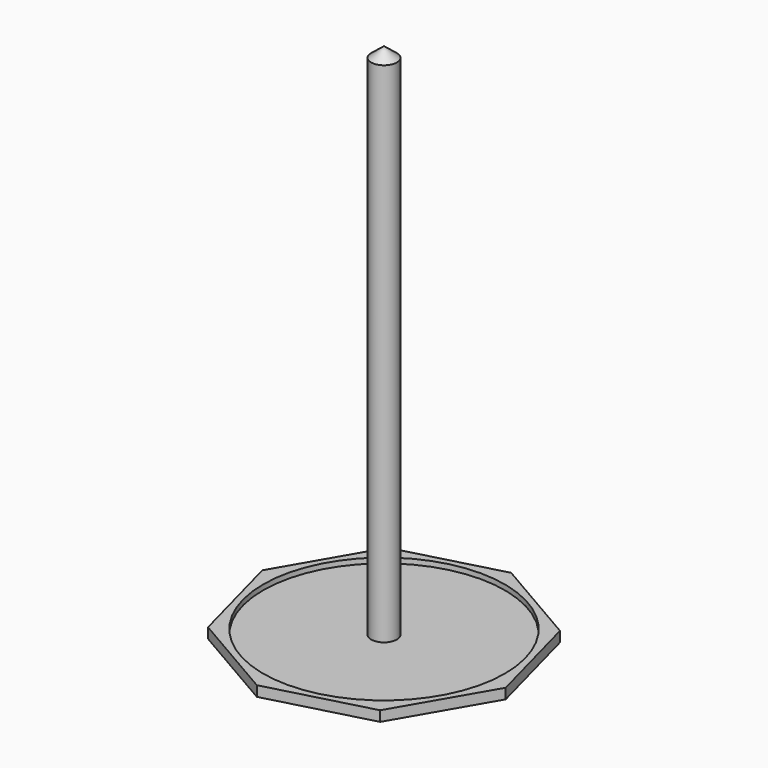
from build123d import *

# Parameters (mm, degrees)
F0_R      = 5
F1_DEPTH  = 200
F0_R_2    = 47.095
F2_DEPTH  = 2
F3_DEPTH  = 4
F1_FACE_R = 5


with BuildPart() as f1:
    # F0 (on Top) → F1 (new body)
    with BuildSketch(Plane.XY):
        Circle(F0_R)
    extrude(amount=F1_DEPTH)

    # F0 (on Top) → F2 (join)
    with BuildSketch(Plane.XY):
        Circle(F0_R_2)
        Circle(F0_R, mode=Mode.SUBTRACT)
    extrude(amount=F2_DEPTH)

    # F0 (on Top) → F3 (join)
    with BuildSketch(Plane.XY):
        Polygon((-32.5393686004, 42.5539186241), (-53.098972618, 7.0813562323), (-42.5539186241, -32.5393686004), (-7.0813562323, -53.098972618), (32.5393686004, -42.5539186241), (53.098972618, -7.0813562323), (42.5539186241, 32.5393686004), (7.0813562323, 53.098972618), align=None)
        Circle(F0_R_2, mode=Mode.SUBTRACT)
    extrude(amount=F3_DEPTH)

    # F1_face (on face) → F6 section 0
    with BuildSketch(Plane.XY.offset(200), mode=Mode.PRIVATE) as f6_s0:
        Circle(F1_FACE_R)
    loft([Vertex(0, 0, 204), f6_s0.sketch])


solid = f1.part
